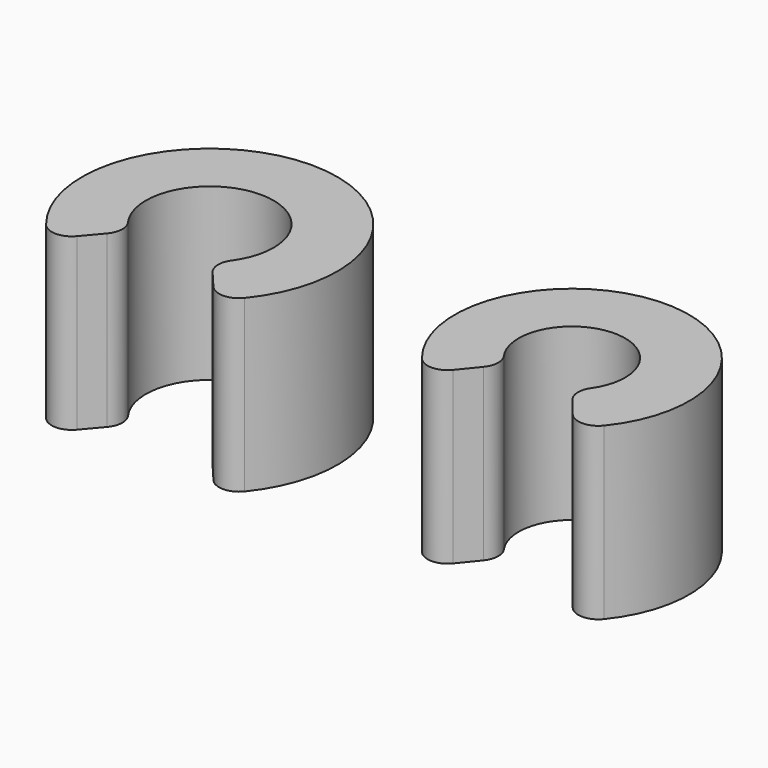
from build123d import *

# Parameters (mm, degrees)
F1_DEPTH = 12.7


with BuildPart() as f1:
    # F0 (on Top) → F1 (new body)
    with BuildSketch(Plane.XY):
        with BuildLine():
            ThreePointArc((-21.90478, -6.019131), (-20.743493, -6.550339), (-19.593825, -5.99443))
            ThreePointArc((-19.593825, -5.99443), (-26.996017, 9.525), (-34.398208, -5.99443))
            ThreePointArc((-34.398208, -5.99443), (-33.248541, -6.550339), (-32.087254, -6.019131))
            Line((-32.087254, -6.019131), (-30.922637, -4.642258))
            ThreePointArc((-30.922637, -4.642258), (-30.568953, -3.72996), (-30.853072, -2.79366))
            ThreePointArc((-30.853072, -2.79366), (-26.996017, 4.7625), (-23.138962, -2.79366))
            ThreePointArc((-23.138962, -2.79366), (-23.423081, -3.72996), (-23.069397, -4.642258))
            Line((-23.069397, -4.642258), (-21.90478, -6.019131))
        make_face()
        with BuildLine():
            ThreePointArc((6.784933, -5.495399), (0, 8.73125), (-6.784933, -5.495399))
            ThreePointArc((-6.784933, -5.495399), (-5.619529, -6.051307), (-4.453957, -5.495747))
            Line((-4.453957, -5.495747), (-3.311216, -4.085716))
            ThreePointArc((-3.311216, -4.085716), (-2.97746, -3.193163), (-3.248705, -2.279669))
            ThreePointArc((-3.248705, -2.279669), (0, 3.96875), (3.248705, -2.279669))
            ThreePointArc((3.248705, -2.279669), (2.97746, -3.193163), (3.311216, -4.085716))
            Line((3.311216, -4.085716), (4.453957, -5.495747))
            ThreePointArc((4.453957, -5.495747), (5.619529, -6.051307), (6.784933, -5.495399))
        make_face()
    extrude(amount=F1_DEPTH)


solid = f1.part
